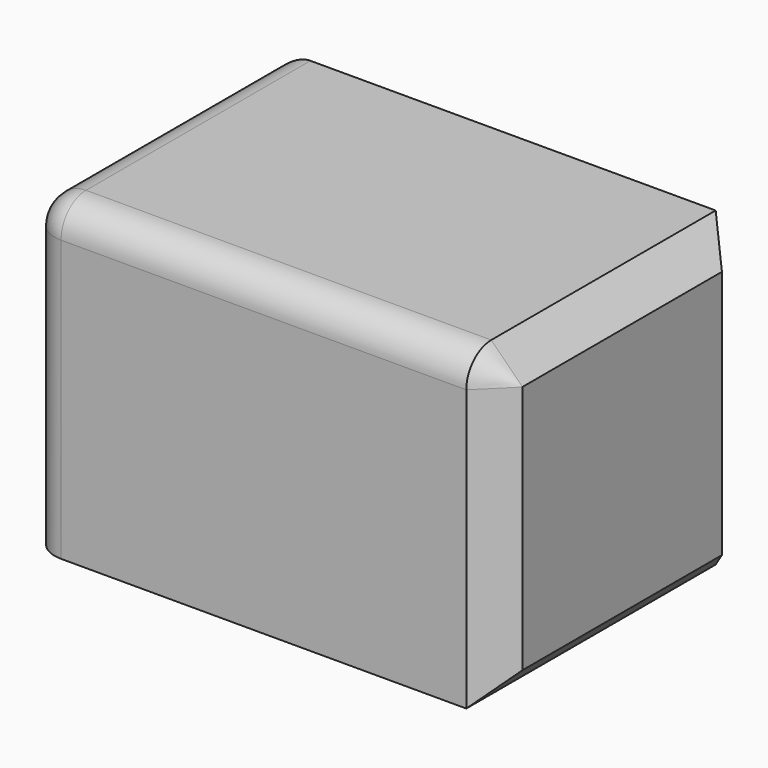
from build123d import *

# Parameters (mm, degrees)
F0_W          = 76.2
F0_H          = 50.8
F1_DEPTH      = 50.8
F2_R          = 5.08
F3_R          = 6.35
F4_DEPTH      = 25.4
F4_DEPTH_BACK = 25.4
F5_SIZE       = 5.08


with BuildPart() as f1:
    # F0 (on Front) → F1 (new body)
    with BuildSketch(Plane.XZ):
        with Locations((38.1, 25.4)):
            Rectangle(F0_W, F0_H)
    extrude(amount=F1_DEPTH)

    # F2
    f2_edges = [f1.edges().sort_by_distance(p)[0] for p in [
        (0, -25.4, 50.8),
        (38.1, -50.8, 50.8),
        (0, -50.8, 25.4),
        (0, 0, 25.4),
    ]]
    fillet(f2_edges, radius=F2_R)

    # F3 (on face) → F4 (cut, two sides)
    with BuildSketch(Plane(origin=(0, 0, 0), x_dir=(0, -1, 0), z_dir=(-1, 0, 0))) as f4_sk:
        with Locations((30.48, 20.32)):
            Circle(F3_R)
    extrude(amount=-F4_DEPTH, mode=Mode.SUBTRACT)
    extrude(f4_sk.sketch, amount=-F4_DEPTH_BACK, mode=Mode.SUBTRACT)

    # F5
    f5_edges = [f1.edges().sort_by_distance(p)[0] for p in [
        (76.2, -50.8, 22.86),
        (76.2, -25.4, 0),
        (76.2, 0, 25.4),
    ]]
    chamfer(f5_edges, length=F5_SIZE)


solid = f1.part
